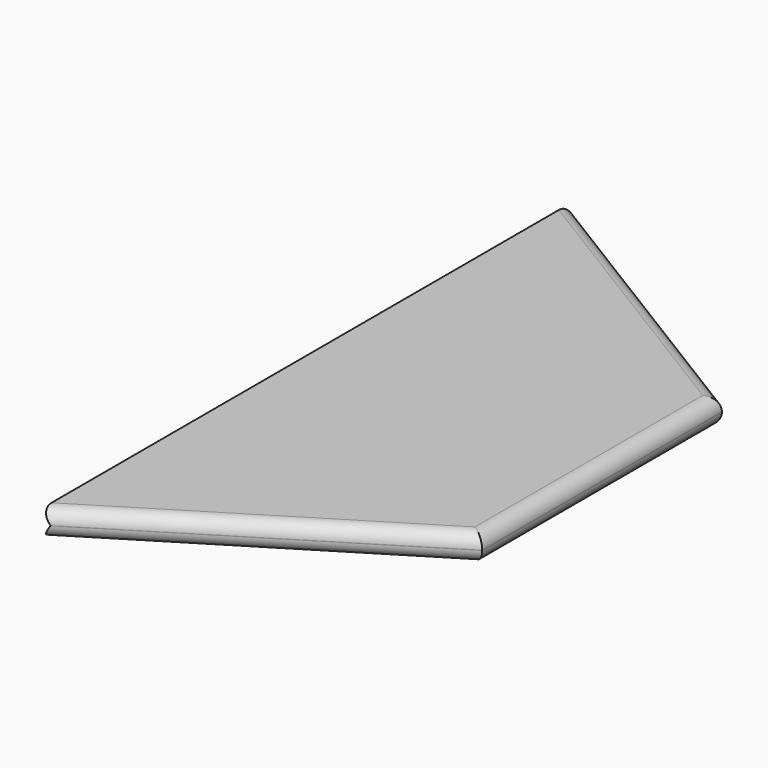
from build123d import *

# Parameters (mm, degrees)
PAD_DEPTH         = 2
POCKET_DEPTH      = 25
POCKET_DEPTH_BACK = -25
FILLET_R          = 0.99


with BuildPart() as part:
    # Sketch → Pad (new body)
    with BuildSketch(Plane.XY):
        Polygon((0, -25), (22.318456, -11.264392), (22.318456, 11.264392), (0, 25), align=None)
    extrude(amount=PAD_DEPTH)

    # Sketch001 → Pocket (cut, two sides)
    with BuildSketch(Plane.XZ) as pocket_sk:
        Polygon((0, 2), (0.57735, 1), (0, 0), (-0.786644, 0.221257), (-0.914664, 1.821517), align=None)
    extrude(amount=-POCKET_DEPTH, mode=Mode.SUBTRACT)
    extrude(pocket_sk.sketch, amount=-POCKET_DEPTH_BACK, mode=Mode.SUBTRACT)

    # Fillet
    fillet_edges = [part.edges().sort_by_distance(p)[0] for p in [
        (11.159228, 18.132196, 0),
        (11.159228, 18.132196, 2),
        (22.318456, 0, 0),
        (11.159228, -18.132196, 0),
        (22.318456, 0, 2),
        (11.159228, -18.132196, 2),
    ]]
    fillet(fillet_edges, radius=FILLET_R)


solid = part.part
